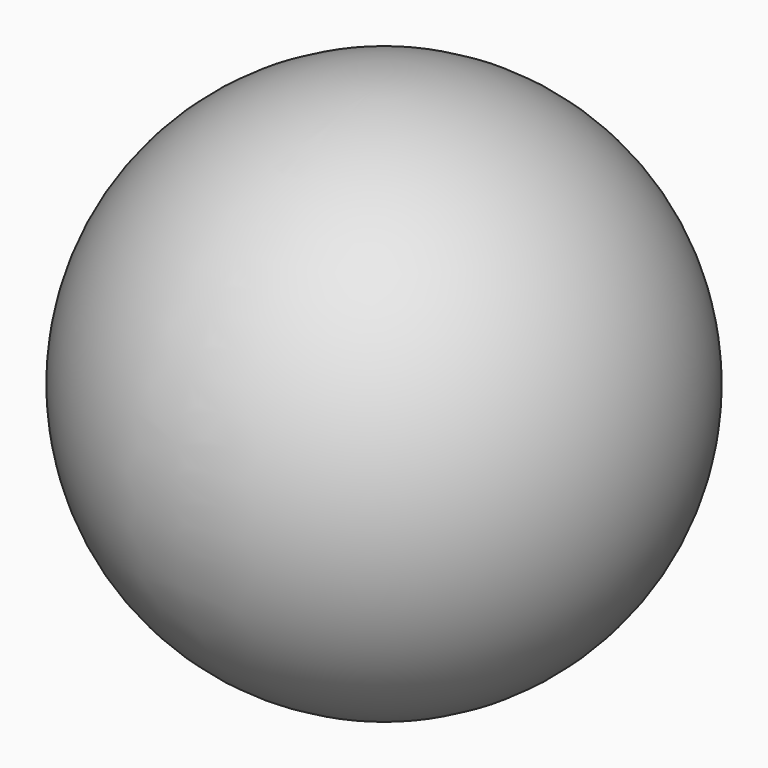
from build123d import *


with BuildPart() as f2:
    # F0 (on Right) → F2 (revolve)
    with BuildSketch(Plane.YZ):
        with BuildLine():
            Line((0, -27.318563), (0, 27.318563))
            ThreePointArc((0, 27.318563), (-27.318563, 0), (0, -27.318563))
        make_face()
    revolve(axis=Axis((0, 0, 38.840089), (0, 0, 1)))


solid = f2.part
